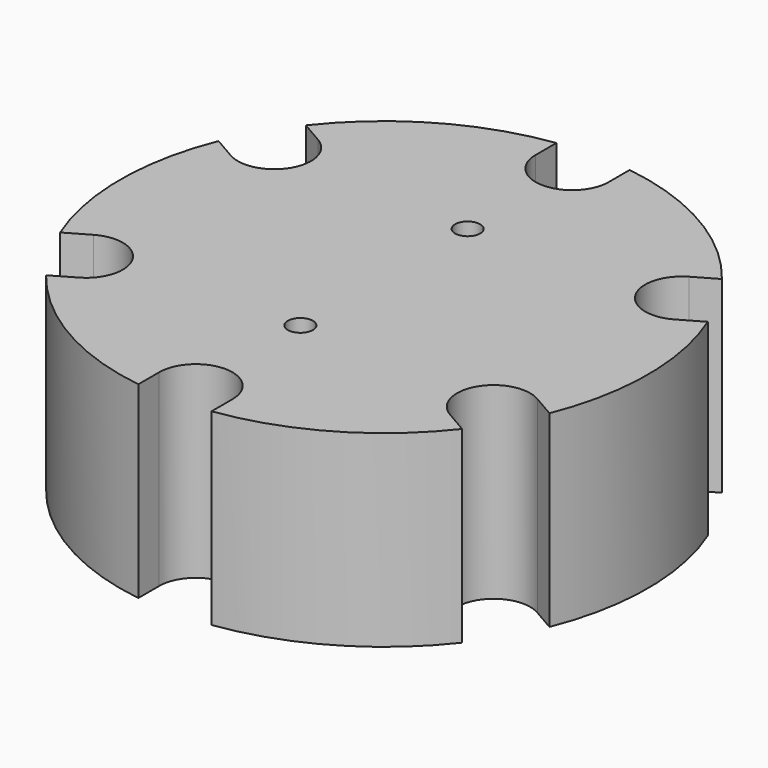
from build123d import *

# Parameters (mm, degrees)
F0_R     = 6
F1_DEPTH = 90


with BuildPart() as f1:
    # F0 (on Top) → F1 (new body)
    with BuildSketch(Plane.XY):
        with BuildLine():
            Line((17.5, 125), (17.5, 112.5))
            ThreePointArc((17.5, 112.5), (0, 95), (-17.5, 112.5))
            Line((-17.5, 112.5), (-17.5, 125))
            ThreePointArc((-17.5, 125), (-63.109528, 109.308909), (-99.503175, 77.655445))
            Line((-99.503175, 77.655445), (-88.677858, 71.405445))
            ThreePointArc((-88.677858, 71.405445), (-82.272413, 47.5), (-106.177858, 41.094555))
            Line((-106.177858, 41.094555), (-117.003175, 47.344555))
            ThreePointArc((-117.003175, 47.344555), (-126.219056, 0), (-117.003175, -47.344555))
            Line((-117.003175, -47.344555), (-106.177858, -41.094555))
            ThreePointArc((-106.177858, -41.094555), (-82.272413, -47.5), (-88.677858, -71.405445))
            Line((-88.677858, -71.405445), (-99.503175, -77.655445))
            ThreePointArc((-99.503175, -77.655445), (-63.109528, -109.308909), (-17.5, -125))
            Line((-17.5, -125), (-17.5, -112.5))
            ThreePointArc((-17.5, -112.5), (0, -95), (17.5, -112.5))
            Line((17.5, -112.5), (17.5, -125))
            ThreePointArc((17.5, -125), (63.109528, -109.308909), (99.503175, -77.655445))
            Line((99.503175, -77.655445), (88.677858, -71.405445))
            ThreePointArc((88.677858, -71.405445), (82.272413, -47.5), (106.177858, -41.094555))
            Line((106.177858, -41.094555), (117.003175, -47.344555))
            ThreePointArc((117.003175, -47.344555), (126.219056, 0), (117.003175, 47.344555))
            Line((117.003175, 47.344555), (106.177858, 41.094555))
            ThreePointArc((106.177858, 41.094555), (82.272413, 47.5), (88.677858, 71.405445))
            Line((88.677858, 71.405445), (99.503175, 77.655445))
            ThreePointArc((99.503175, 77.655445), (63.109528, 109.308909), (17.5, 125))
        make_face()
        with Locations((0, -50)):
            Circle(F0_R, mode=Mode.SUBTRACT)
        with Locations((0, 50)):
            Circle(F0_R, mode=Mode.SUBTRACT)
    extrude(amount=F1_DEPTH)


solid = f1.part
